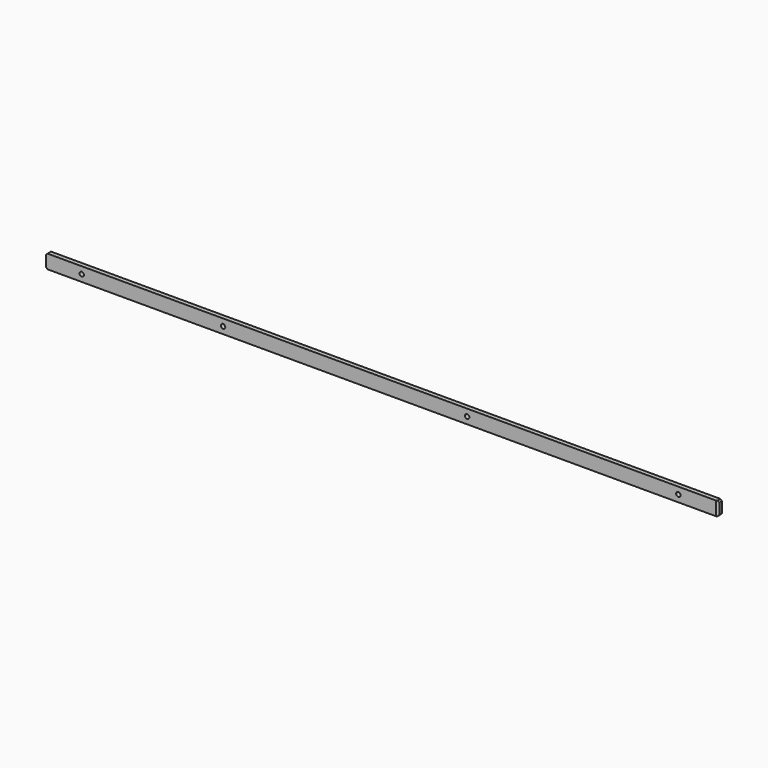
from build123d import *

# Parameters (mm, degrees)
F1_DEPTH = 6
F2_SIZE2 = 1.7320508076
F2_SIZE  = 3


with BuildPart() as f1:
    # F0 (on Front) → F1 (new body)
    with BuildSketch(Plane.XZ):
        Polygon((-645.146232, -65.627386), (-643.146232, -67.627386), (275.853768, -67.627386), (277.853768, -65.627386), (277.853768, -50.627386), (275.853768, -48.627386), (-643.146232, -48.627386), (-645.146232, -50.627386), align=None)
        with BuildLine():
            ThreePointArc((-596.146232, -55.127386), (-594.0249116564, -56.0060656564), (-593.146232, -58.127386))
            ThreePointArc((-593.146232, -58.127386), (-594.0249116564, -60.2487063436), (-596.146232, -61.127386))
            ThreePointArc((-596.146232, -61.127386), (-598.2675523436, -60.2487063436), (-599.146232, -58.127386))
            ThreePointArc((-599.146232, -58.127386), (-598.2675523436, -56.0060656564), (-596.146232, -55.127386))
        make_face(mode=Mode.SUBTRACT)
        with BuildLine():
            ThreePointArc((-402.146232, -55.127386), (-400.0249116564, -56.0060656564), (-399.146232, -58.127386))
            ThreePointArc((-399.146232, -58.127386), (-400.0249116564, -60.2487063436), (-402.146232, -61.127386))
            ThreePointArc((-402.146232, -61.127386), (-404.2675523436, -60.2487063436), (-405.146232, -58.127386))
            ThreePointArc((-405.146232, -58.127386), (-404.2675523436, -56.0060656564), (-402.146232, -55.127386))
        make_face(mode=Mode.SUBTRACT)
        with BuildLine():
            ThreePointArc((-67.146232, -55.127386), (-65.0249116564, -56.0060656564), (-64.146232, -58.127386))
            ThreePointArc((-64.146232, -58.127386), (-65.0249116564, -60.2487063436), (-67.146232, -61.127386))
            ThreePointArc((-67.146232, -61.127386), (-69.2675523436, -60.2487063436), (-70.146232, -58.127386))
            ThreePointArc((-70.146232, -58.127386), (-69.2675523436, -56.0060656564), (-67.146232, -55.127386))
        make_face(mode=Mode.SUBTRACT)
        with BuildLine():
            ThreePointArc((222.853768, -55.127386), (224.9750883436, -56.0060656564), (225.853768, -58.127386))
            ThreePointArc((225.853768, -58.127386), (224.9750883436, -60.2487063436), (222.853768, -61.127386))
            ThreePointArc((222.853768, -61.127386), (220.7324476564, -60.2487063436), (219.853768, -58.127386))
            ThreePointArc((219.853768, -58.127386), (220.7324476564, -56.0060656564), (222.853768, -55.127386))
        make_face(mode=Mode.SUBTRACT)
    extrude(amount=-F1_DEPTH)

    # F2
    f2_edges = [f1.edges().sort_by_distance(p)[0] for p in [
        (277.853768, 0, -58.127386),
    ]]
    f2_side = f1.faces().sort_by_distance((-183.470896, 0, -58.127386))[0]
    chamfer(f2_edges, length=F2_SIZE, length2=F2_SIZE2, reference=f2_side)


solid = f1.part
